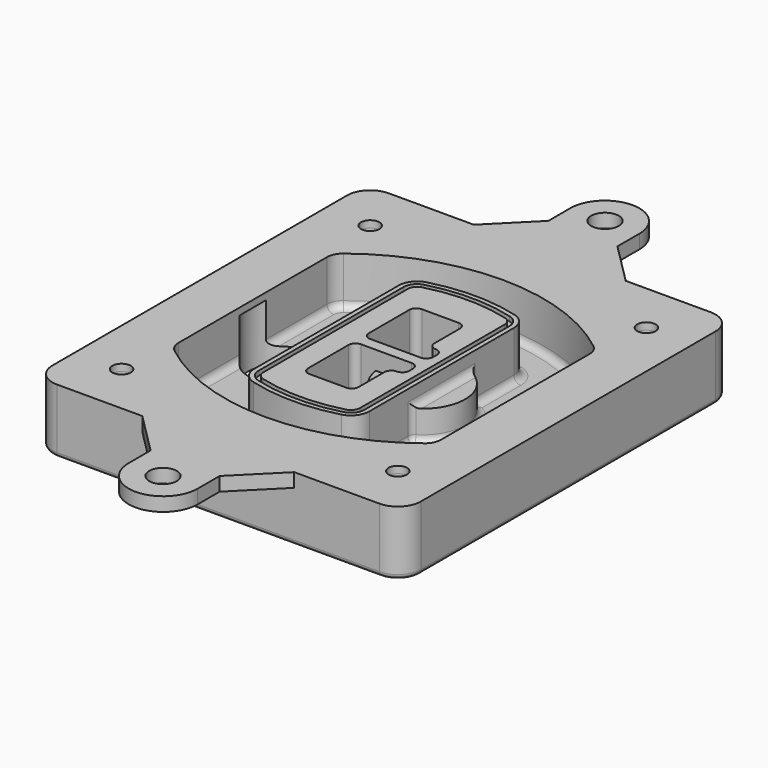
from build123d import *

# Parameters (mm, degrees)
F0_R      = 4
F1_DEPTH  = 25
F2_DEPTH  = 3
F3_DEPTH  = 18
F5_DEPTH  = 21
F6_DEPTH  = 2
F8_DEPTH  = 20
F9_DEPTH  = 16
F10_DEPTH = 25
F7_R      = 6
F7_R_2    = 4
F11_DEPTH = 6
F13_DEPTH = 9
F14_R     = 3
F15_R     = 2
F16_R     = 6
F16_R_2   = 4
F17_DEPTH = 3


with BuildPart() as f1:
    # F0 (on Top) → F1 (new body)
    with BuildSketch(Plane.XY):
        with BuildLine():
            ThreePointArc((-80, -80), (-77.0710678119, -87.0710678119), (-70, -90))
            Line((-70, -90), (70, -90))
            ThreePointArc((70, -90), (77.0710678119, -87.0710678119), (80, -80))
            Line((80, -80), (80, 80))
            ThreePointArc((80, 80), (77.0710678119, 87.0710678119), (70, 90))
            Line((70, 90), (-70, 90))
            ThreePointArc((-70, 90), (-77.0710678119, 87.0710678119), (-80, 80))
            Line((-80, 80), (-80, -80))
        make_face()
        with Locations((-60, -67.5)):
            Circle(F0_R, mode=Mode.SUBTRACT)
        with Locations((60, -67.5)):
            Circle(F0_R, mode=Mode.SUBTRACT)
        with Locations((-60, 67.5)):
            Circle(F0_R, mode=Mode.SUBTRACT)
        with BuildLine():
            ThreePointArc((-64, 40.2934422872), (-62.5820384798, 46.4328484224), (-58.6153846154, 51.3286200352))
            ThreePointArc((-58.6153846154, 51.3286200352), (0, 71.5), (58.6153846154, 51.3286200352))
            ThreePointArc((58.6153846154, 51.3286200352), (62.5820384798, 46.4328484224), (64, 40.2934422872))
            Line((64, 40.2934422872), (64, -40.2934422872))
            ThreePointArc((64, -40.2934422872), (62.5820384798, -46.4328484224), (58.6153846154, -51.3286200352))
            ThreePointArc((58.6153846154, -51.3286200352), (0, -71.5), (-58.6153846154, -51.3286200352))
            ThreePointArc((-58.6153846154, -51.3286200352), (-62.5820384798, -46.4328484224), (-64, -40.2934422872))
            Line((-64, -40.2934422872), (-64, 40.2934422872))
        make_face(mode=Mode.SUBTRACT)
        with Locations((60, 67.5)):
            Circle(F0_R, mode=Mode.SUBTRACT)
        with BuildLine():
            ThreePointArc((58.6153846154, 51.3286200352), (0, 71.5), (-58.6153846154, 51.3286200352))
            ThreePointArc((-58.6153846154, 51.3286200352), (-62.5820384798, 46.4328484224), (-64, 40.2934422872))
            Line((-64, 40.2934422872), (-64, -40.2934422872))
            ThreePointArc((-64, -40.2934422872), (-62.5820384798, -46.4328484224), (-58.6153846154, -51.3286200352))
            ThreePointArc((-58.6153846154, -51.3286200352), (0, -71.5), (58.6153846154, -51.3286200352))
            ThreePointArc((58.6153846154, -51.3286200352), (62.5820384798, -46.4328484224), (64, -40.2934422872))
            Line((64, -40.2934422872), (64, 40.2934422872))
            ThreePointArc((64, 40.2934422872), (62.5820384798, 46.4328484224), (58.6153846154, 51.3286200352))
        make_face()
        with BuildLine():
            Line((-60, -40.2934422872), (-60, 40.2934422872))
            ThreePointArc((-60, 40.2934422872), (-58.9871703427, 44.6787323838), (-56.1538461538, 48.1757121072))
            ThreePointArc((-56.1538461538, 48.1757121072), (0, 67.5), (56.1538461538, 48.1757121072))
            ThreePointArc((56.1538461538, 48.1757121072), (58.9871703427, 44.6787323838), (60, 40.2934422872))
            Line((60, 40.2934422872), (60, -40.2934422872))
            ThreePointArc((60, -40.2934422872), (58.9871703427, -44.6787323838), (56.1538461538, -48.1757121072))
            ThreePointArc((56.1538461538, -48.1757121072), (0, -67.5), (-56.1538461538, -48.1757121072))
            ThreePointArc((-56.1538461538, -48.1757121072), (-58.9871703427, -44.6787323838), (-60, -40.2934422872))
        make_face(mode=Mode.SUBTRACT)
        with BuildLine():
            ThreePointArc((-56.1538461538, 48.1757121072), (-58.9871703427, 44.6787323838), (-60, 40.2934422872))
            Line((-60, 40.2934422872), (-60, -40.2934422872))
            ThreePointArc((-60, -40.2934422872), (-58.9871703427, -44.6787323838), (-56.1538461538, -48.1757121072))
            ThreePointArc((-56.1538461538, -48.1757121072), (0, -67.5), (56.1538461538, -48.1757121072))
            ThreePointArc((56.1538461538, -48.1757121072), (58.9871703427, -44.6787323838), (60, -40.2934422872))
            Line((60, -40.2934422872), (60, 40.2934422872))
            ThreePointArc((60, 40.2934422872), (58.9871703427, 44.6787323838), (56.1538461538, 48.1757121072))
            ThreePointArc((56.1538461538, 48.1757121072), (0, 67.5), (-56.1538461538, 48.1757121072))
        make_face()
        with BuildLine():
            ThreePointArc((54.3076923077, 45.8110311612), (56.2910192399, 43.3631453548), (57, 40.2934422872))
            Line((57, 40.2934422872), (57, -40.2934422872))
            ThreePointArc((57, -40.2934422872), (56.2910192399, -43.3631453548), (54.3076923077, -45.8110311612))
            ThreePointArc((54.3076923077, -45.8110311612), (0, -64.5), (-54.3076923077, -45.8110311612))
            ThreePointArc((-54.3076923077, -45.8110311612), (-56.2910192399, -43.3631453548), (-57, -40.2934422872))
            Line((-57, -40.2934422872), (-57, 40.2934422872))
            ThreePointArc((-57, 40.2934422872), (-56.2910192399, 43.3631453548), (-54.3076923077, 45.8110311612))
            ThreePointArc((-54.3076923077, 45.8110311612), (0, 64.5), (54.3076923077, 45.8110311612))
        make_face(mode=Mode.SUBTRACT)
        with BuildLine():
            Line((57, -40.2934422872), (57, 40.2934422872))
            ThreePointArc((57, 40.2934422872), (56.2910192399, 43.3631453548), (54.3076923077, 45.8110311612))
            ThreePointArc((54.3076923077, 45.8110311612), (0, 64.5), (-54.3076923077, 45.8110311612))
            ThreePointArc((-54.3076923077, 45.8110311612), (-56.2910192399, 43.3631453548), (-57, 40.2934422872))
            Line((-57, 40.2934422872), (-57, -40.2934422872))
            ThreePointArc((-57, -40.2934422872), (-56.2910192399, -43.3631453548), (-54.3076923077, -45.8110311612))
            ThreePointArc((-54.3076923077, -45.8110311612), (0, -64.5), (54.3076923077, -45.8110311612))
            ThreePointArc((54.3076923077, -45.8110311612), (56.2910192399, -43.3631453548), (57, -40.2934422872))
        make_face()
    extrude(amount=-F1_DEPTH)

    # F0 (on Top) → F2 (join)
    with BuildSketch(Plane.XY):
        with BuildLine():
            ThreePointArc((-56.1538461538, 48.1757121072), (-58.9871703427, 44.6787323838), (-60, 40.2934422872))
            Line((-60, 40.2934422872), (-60, -40.2934422872))
            ThreePointArc((-60, -40.2934422872), (-58.9871703427, -44.6787323838), (-56.1538461538, -48.1757121072))
            ThreePointArc((-56.1538461538, -48.1757121072), (0, -67.5), (56.1538461538, -48.1757121072))
            ThreePointArc((56.1538461538, -48.1757121072), (58.9871703427, -44.6787323838), (60, -40.2934422872))
            Line((60, -40.2934422872), (60, 40.2934422872))
            ThreePointArc((60, 40.2934422872), (58.9871703427, 44.6787323838), (56.1538461538, 48.1757121072))
            ThreePointArc((56.1538461538, 48.1757121072), (0, 67.5), (-56.1538461538, 48.1757121072))
        make_face()
        with BuildLine():
            ThreePointArc((54.3076923077, 45.8110311612), (56.2910192399, 43.3631453548), (57, 40.2934422872))
            Line((57, 40.2934422872), (57, -40.2934422872))
            ThreePointArc((57, -40.2934422872), (56.2910192399, -43.3631453548), (54.3076923077, -45.8110311612))
            ThreePointArc((54.3076923077, -45.8110311612), (0, -64.5), (-54.3076923077, -45.8110311612))
            ThreePointArc((-54.3076923077, -45.8110311612), (-56.2910192399, -43.3631453548), (-57, -40.2934422872))
            Line((-57, -40.2934422872), (-57, 40.2934422872))
            ThreePointArc((-57, 40.2934422872), (-56.2910192399, 43.3631453548), (-54.3076923077, 45.8110311612))
            ThreePointArc((-54.3076923077, 45.8110311612), (0, 64.5), (54.3076923077, 45.8110311612))
        make_face(mode=Mode.SUBTRACT)
    extrude(amount=F2_DEPTH)

    # F0 (on Top) → F3 (cut)
    with BuildSketch(Plane.XY):
        with BuildLine():
            Line((57, -40.2934422872), (57, 40.2934422872))
            ThreePointArc((57, 40.2934422872), (56.2910192399, 43.3631453548), (54.3076923077, 45.8110311612))
            ThreePointArc((54.3076923077, 45.8110311612), (0, 64.5), (-54.3076923077, 45.8110311612))
            ThreePointArc((-54.3076923077, 45.8110311612), (-56.2910192399, 43.3631453548), (-57, 40.2934422872))
            Line((-57, 40.2934422872), (-57, -40.2934422872))
            ThreePointArc((-57, -40.2934422872), (-56.2910192399, -43.3631453548), (-54.3076923077, -45.8110311612))
            ThreePointArc((-54.3076923077, -45.8110311612), (0, -64.5), (54.3076923077, -45.8110311612))
            ThreePointArc((54.3076923077, -45.8110311612), (56.2910192399, -43.3631453548), (57, -40.2934422872))
        make_face()
    extrude(amount=-F3_DEPTH, mode=Mode.SUBTRACT)

    # F4 (on face) → F5 (join, through all)
    with BuildSketch(Plane.XY.offset(3)):
        with BuildLine():
            ThreePointArc((-25, -39.2465276821), (-23.3511545998, -44.1109737193), (-19.0842911877, -46.9702398883))
            ThreePointArc((-19.0842911877, -46.9702398883), (0, -49.5), (19.0842911877, -46.9702398883))
            ThreePointArc((19.0842911877, -46.9702398883), (23.3511545998, -44.1109737193), (25, -39.2465276821))
            Line((25, -39.2465276821), (25, 39.2465276821))
            ThreePointArc((25, 39.2465276821), (23.3511545998, 44.1109737193), (19.0842911877, 46.9702398883))
            ThreePointArc((19.0842911877, 46.9702398883), (0, 49.5), (-19.0842911877, 46.9702398883))
            ThreePointArc((-19.0842911877, 46.9702398883), (-23.3511545998, 44.1109737193), (-25, 39.2465276821))
            Line((-25, 39.2465276821), (-25, -39.2465276821))
        make_face()
        with BuildLine():
            ThreePointArc((18.5632183908, 45.0393118368), (21.7633659499, 42.89486221), (23, 39.2465276821))
            Line((23, 39.2465276821), (23, -39.2465276821))
            ThreePointArc((23, -39.2465276821), (21.7633659499, -42.89486221), (18.5632183908, -45.0393118368))
            ThreePointArc((18.5632183908, -45.0393118368), (0, -47.5), (-18.5632183908, -45.0393118368))
            ThreePointArc((-18.5632183908, -45.0393118368), (-21.7633659499, -42.89486221), (-23, -39.2465276821))
            Line((-23, -39.2465276821), (-23, 39.2465276821))
            ThreePointArc((-23, 39.2465276821), (-21.7633659499, 42.89486221), (-18.5632183908, 45.0393118368))
            ThreePointArc((-18.5632183908, 45.0393118368), (0, 47.5), (18.5632183908, 45.0393118368))
        make_face(mode=Mode.SUBTRACT)
        with BuildLine():
            Line((23, -39.2465276821), (23, 39.2465276821))
            ThreePointArc((23, 39.2465276821), (21.7633659499, 42.89486221), (18.5632183908, 45.0393118368))
            ThreePointArc((18.5632183908, 45.0393118368), (0, 47.5), (-18.5632183908, 45.0393118368))
            ThreePointArc((-18.5632183908, 45.0393118368), (-21.7633659499, 42.89486221), (-23, 39.2465276821))
            Line((-23, 39.2465276821), (-23, -39.2465276821))
            ThreePointArc((-23, -39.2465276821), (-21.7633659499, -42.89486221), (-18.5632183908, -45.0393118368))
            ThreePointArc((-18.5632183908, -45.0393118368), (0, -47.5), (18.5632183908, -45.0393118368))
            ThreePointArc((18.5632183908, -45.0393118368), (21.7633659499, -42.89486221), (23, -39.2465276821))
        make_face()
        with BuildLine():
            ThreePointArc((18.0421455939, 43.1083837852), (20.1755772999, 41.6787507007), (21, 39.2465276821))
            Line((21, 39.2465276821), (21, -39.2465276821))
            ThreePointArc((21, -39.2465276821), (20.1755772999, -41.6787507007), (18.0421455939, -43.1083837852))
            ThreePointArc((18.0421455939, -43.1083837852), (0, -45.5), (-18.0421455939, -43.1083837852))
            ThreePointArc((-18.0421455939, -43.1083837852), (-20.1755772999, -41.6787507007), (-21, -39.2465276821))
            Line((-21, -39.2465276821), (-21, 39.2465276821))
            ThreePointArc((-21, 39.2465276821), (-20.1755772999, 41.6787507007), (-18.0421455939, 43.1083837852))
            ThreePointArc((-18.0421455939, 43.1083837852), (0, 45.5), (18.0421455939, 43.1083837852))
        make_face(mode=Mode.SUBTRACT)
        with BuildLine():
            Line((21, -39.2465276821), (21, 39.2465276821))
            ThreePointArc((21, 39.2465276821), (20.1755772999, 41.6787507007), (18.0421455939, 43.1083837852))
            ThreePointArc((18.0421455939, 43.1083837852), (0, 45.5), (-18.0421455939, 43.1083837852))
            ThreePointArc((-18.0421455939, 43.1083837852), (-20.1755772999, 41.6787507007), (-21, 39.2465276821))
            Line((-21, 39.2465276821), (-21, -39.2465276821))
            ThreePointArc((-21, -39.2465276821), (-20.1755772999, -41.6787507007), (-18.0421455939, -43.1083837852))
            ThreePointArc((-18.0421455939, -43.1083837852), (0, -45.5), (18.0421455939, -43.1083837852))
            ThreePointArc((18.0421455939, -43.1083837852), (20.1755772999, -41.6787507007), (21, -39.2465276821))
        make_face()
        with BuildLine():
            Line((-8, -2.5), (14, -2.5))
            ThreePointArc((14, -2.5), (16.1213203436, -3.3786796564), (17, -5.5))
            Line((17, -5.5), (17, -7.5))
            ThreePointArc((17, -7.5), (16.1213203436, -9.6213203436), (14, -10.5))
            ThreePointArc((14, -10.5), (11.8786796564, -11.3786796564), (11, -13.5))
            Line((11, -13.5), (11, -27.5))
            ThreePointArc((11, -27.5), (10.1213203436, -29.6213203436), (8, -30.5))
            Line((8, -30.5), (-8, -30.5))
            ThreePointArc((-8, -30.5), (-10.1213203436, -29.6213203436), (-11, -27.5))
            Line((-11, -27.5), (-11, -5.5))
            ThreePointArc((-11, -5.5), (-10.1213203436, -3.3786796564), (-8, -2.5))
        make_face(mode=Mode.SUBTRACT)
        with BuildLine():
            ThreePointArc((-8, 2.5), (-10.1213203436, 3.3786796564), (-11, 5.5))
            Line((-11, 5.5), (-11, 27.5))
            ThreePointArc((-11, 27.5), (-10.1213203436, 29.6213203436), (-8, 30.5))
            Line((-8, 30.5), (8, 30.5))
            ThreePointArc((8, 30.5), (10.1213203436, 29.6213203436), (11, 27.5))
            Line((11, 27.5), (11, 13.5))
            ThreePointArc((11, 13.5), (11.8786796564, 11.3786796564), (14, 10.5))
            ThreePointArc((14, 10.5), (16.1213203436, 9.6213203436), (17, 7.5))
            Line((17, 7.5), (17, 5.5))
            ThreePointArc((17, 5.5), (16.1213203436, 3.3786796564), (14, 2.5))
            Line((14, 2.5), (-8, 2.5))
        make_face(mode=Mode.SUBTRACT)
    extrude(amount=-F5_DEPTH)

    # F4 (on face) → F6 (cut)
    with BuildSketch(Plane.XY.offset(3)):
        with BuildLine():
            Line((23, -39.2465276821), (23, 39.2465276821))
            ThreePointArc((23, 39.2465276821), (21.7633659499, 42.89486221), (18.5632183908, 45.0393118368))
            ThreePointArc((18.5632183908, 45.0393118368), (0, 47.5), (-18.5632183908, 45.0393118368))
            ThreePointArc((-18.5632183908, 45.0393118368), (-21.7633659499, 42.89486221), (-23, 39.2465276821))
            Line((-23, 39.2465276821), (-23, -39.2465276821))
            ThreePointArc((-23, -39.2465276821), (-21.7633659499, -42.89486221), (-18.5632183908, -45.0393118368))
            ThreePointArc((-18.5632183908, -45.0393118368), (0, -47.5), (18.5632183908, -45.0393118368))
            ThreePointArc((18.5632183908, -45.0393118368), (21.7633659499, -42.89486221), (23, -39.2465276821))
        make_face()
        with BuildLine():
            ThreePointArc((18.0421455939, 43.1083837852), (20.1755772999, 41.6787507007), (21, 39.2465276821))
            Line((21, 39.2465276821), (21, -39.2465276821))
            ThreePointArc((21, -39.2465276821), (20.1755772999, -41.6787507007), (18.0421455939, -43.1083837852))
            ThreePointArc((18.0421455939, -43.1083837852), (0, -45.5), (-18.0421455939, -43.1083837852))
            ThreePointArc((-18.0421455939, -43.1083837852), (-20.1755772999, -41.6787507007), (-21, -39.2465276821))
            Line((-21, -39.2465276821), (-21, 39.2465276821))
            ThreePointArc((-21, 39.2465276821), (-20.1755772999, 41.6787507007), (-18.0421455939, 43.1083837852))
            ThreePointArc((-18.0421455939, 43.1083837852), (0, 45.5), (18.0421455939, 43.1083837852))
        make_face(mode=Mode.SUBTRACT)
    extrude(amount=-F6_DEPTH, mode=Mode.SUBTRACT)

    # F7 (on face) → F8 (join)
    with BuildSketch(Plane(origin=(0, 0, -25), x_dir=(1, 0, 0), z_dir=(0, 0, -1))):
        with BuildLine():
            ThreePointArc((3.28842436, 0), (16.7567035675, 13.4682792075), (30.224982775, 0))
            Line((30.224982775, 0), (35.224982775, 0))
            ThreePointArc((35.224982775, 0), (16.7567035675, 18.4682792075), (-1.71157564, 0))
            Line((-1.71157564, 0), (3.28842436, 0))
        make_face()
        with BuildLine():
            Line((3.28842436, 0), (30.224982775, 0))
            ThreePointArc((30.224982775, 0), (16.7567035675, 13.4682792075), (3.28842436, 0))
        make_face()
        with BuildLine():
            ThreePointArc((3.28842436, 0), (16.7567035675, -13.4682792075), (30.224982775, 0))
            Line((30.224982775, 0), (3.28842436, 0))
        make_face()
        with BuildLine():
            Line((35.224982775, 0), (30.224982775, 0))
            ThreePointArc((30.224982775, 0), (16.7567035675, -13.4682792075), (3.28842436, 0))
            Line((3.28842436, 0), (-1.71157564, 0))
            ThreePointArc((-1.71157564, 0), (16.7567035675, -18.4682792075), (35.224982775, 0))
        make_face()
    extrude(amount=-F8_DEPTH)

    # F7 (on face) → F9 (cut)
    with BuildSketch(Plane(origin=(0, 0, -25), x_dir=(1, 0, 0), z_dir=(0, 0, -1))):
        with BuildLine():
            Line((3.28842436, 0), (30.224982775, 0))
            ThreePointArc((30.224982775, 0), (16.7567035675, 13.4682792075), (3.28842436, 0))
        make_face()
        with BuildLine():
            ThreePointArc((3.28842436, 0), (16.7567035675, -13.4682792075), (30.224982775, 0))
            Line((30.224982775, 0), (3.28842436, 0))
        make_face()
    extrude(amount=-F9_DEPTH, mode=Mode.SUBTRACT)

    # F7 (on face) → F10 (cut)
    with BuildSketch(Plane(origin=(0, 0, -25), x_dir=(1, 0, 0), z_dir=(0, 0, -1))):
        with BuildLine():
            Line((-59.0318229325, 0), (-32.0952645175, 0))
            ThreePointArc((-32.0952645175, 0), (-45.563543725, 13.4682792075), (-59.0318229325, 0))
        make_face()
        with BuildLine():
            ThreePointArc((-59.0318229325, 0), (-45.563543725, -13.4682792075), (-32.0952645175, 0))
            Line((-32.0952645175, 0), (-59.0318229325, 0))
        make_face()
    extrude(amount=-F10_DEPTH, mode=Mode.SUBTRACT)

    # F7 (on face) → F11 (cut)
    with BuildSketch(Plane(origin=(0, 0, -25), x_dir=(1, 0, 0), z_dir=(0, 0, -1))):
        with Locations((60, -67.5)):
            Circle(F7_R)
        with Locations((60, -67.5)):
            Circle(F7_R_2, mode=Mode.SUBTRACT)
        with Locations((60, -67.5)):
            Circle(F7_R)
        with Locations((60, -67.5)):
            Circle(F7_R_2, mode=Mode.SUBTRACT)
        with Locations((-60, -67.5)):
            Circle(F7_R)
        with Locations((-60, -67.5)):
            Circle(F7_R_2, mode=Mode.SUBTRACT)
        with Locations((-60, -67.5)):
            Circle(F7_R)
        with Locations((-60, -67.5)):
            Circle(F7_R_2, mode=Mode.SUBTRACT)
        with Locations((-60, 67.5)):
            Circle(F7_R)
        with Locations((-60, 67.5)):
            Circle(F7_R_2, mode=Mode.SUBTRACT)
        with Locations((-60, 67.5)):
            Circle(F7_R)
        with Locations((-60, 67.5)):
            Circle(F7_R_2, mode=Mode.SUBTRACT)
        with Locations((60, 67.5)):
            Circle(F7_R)
        with Locations((60, 67.5)):
            Circle(F7_R_2, mode=Mode.SUBTRACT)
        with Locations((60, 67.5)):
            Circle(F7_R)
        with Locations((60, 67.5)):
            Circle(F7_R_2, mode=Mode.SUBTRACT)
    extrude(amount=-F11_DEPTH, mode=Mode.SUBTRACT)

    # F12 (on face) → F13 (cut, through all)
    with BuildSketch(Plane(origin=(0, 0, -9), x_dir=(1, 0, 0), z_dir=(0, 0, -1))):
        with BuildLine():
            Line((11, 13.5), (11, 17.5481537753))
            ThreePointArc((11, 17.5481537753), (2.5696536419, 11.8239143813), (-1.5415842455, 2.5))
            Line((-1.5415842455, 2.5), (3.5224848595, 2.5))
            ThreePointArc((3.5224848595, 2.5), (6.1857188154, 8.3455872281), (11.2536447004, 12.2927168648))
            ThreePointArc((11.2536447004, 12.2927168648), (11.0640958889, 12.8831798879), (11, 13.5))
        make_face()
        with BuildLine():
            ThreePointArc((11.2536447004, -12.2927168648), (6.1857188154, -8.3455872281), (3.5224848595, -2.5))
            Line((3.5224848595, -2.5), (-1.5415842455, -2.5))
            ThreePointArc((-1.5415842455, -2.5), (2.5696536419, -11.8239143813), (11, -17.5481537753))
            Line((11, -17.5481537753), (11, -13.5))
            ThreePointArc((11, -13.5), (11.0640958889, -12.8831798879), (11.2536447004, -12.2927168648))
        make_face()
        with BuildLine():
            ThreePointArc((11.2536447004, 12.2927168648), (6.1857188154, 8.3455872281), (3.5224848595, 2.5))
            Line((3.5224848595, 2.5), (14, 2.5))
            ThreePointArc((14, 2.5), (16.1213203436, 3.3786796564), (17, 5.5))
            Line((17, 5.5), (17, 7.5))
            ThreePointArc((17, 7.5), (16.1213203436, 9.6213203436), (14, 10.5))
            ThreePointArc((14, 10.5), (12.3601599782, 10.9878446101), (11.2536447004, 12.2927168648))
        make_face()
        with BuildLine():
            Line((14, -2.5), (3.5224848595, -2.5))
            ThreePointArc((3.5224848595, -2.5), (6.1857188154, -8.3455872281), (11.2536447004, -12.2927168648))
            ThreePointArc((11.2536447004, -12.2927168648), (12.3601599782, -10.9878446101), (14, -10.5))
            ThreePointArc((14, -10.5), (16.1213203436, -9.6213203436), (17, -7.5))
            Line((17, -7.5), (17, -5.5))
            ThreePointArc((17, -5.5), (16.1213203436, -3.3786796564), (14, -2.5))
        make_face()
    extrude(amount=F13_DEPTH, mode=Mode.SUBTRACT)

    # F14
    f14_edges = [f1.edges().sort_by_distance(p)[0] for p in [
        (-57, -23.703476, -18),
        (-57, 23.703476, -18),
        (25, 0, -5),
        (25, 16.526506, -11.5),
        (25, -16.526506, -11.5),
        (25, -27.886517, -18),
        (35.224983, 0, -18),
    ]]
    fillet(f14_edges, radius=F14_R)

    # F15
    f15_edges = [f1.edges().sort_by_distance(p)[0] for p in [
        (0, -90, -25),
    ]]
    fillet(f15_edges, radius=F15_R)

    # F16 (on face) → F17 (join, symmetric)
    with BuildSketch(Plane.XY):
        with BuildLine():
            Line((15, 108), (15, 119.8984753489))
            ThreePointArc((15, 119.8984753489), (0, 134.8984753489), (-15, 119.8984753489))
            Line((-15, 119.8984753489), (-15, 108))
            Line((-15, 108), (-33, 90))
            Line((-33, 90), (33, 90))
            Line((33, 90), (15, 108))
        make_face()
        with Locations((0, 120)):
            Circle(F16_R, mode=Mode.SUBTRACT)
        with BuildLine():
            Line((70, 90), (33, 90))
            Line((33, 90), (-33, 90))
            Line((-33, 90), (-70, 90))
            ThreePointArc((-70, 90), (-77.0710678119, 87.0710678119), (-80, 80))
            Line((-80, 80), (-80, -80))
            ThreePointArc((-80, -80), (-77.0710678119, -87.0710678119), (-70, -90))
            Line((-70, -90), (-33, -90))
            Line((-33, -90), (33, -90))
            Line((33, -90), (70, -90))
            ThreePointArc((70, -90), (77.0710678119, -87.0710678119), (80, -80))
            Line((80, -80), (80, 80))
            ThreePointArc((80, 80), (77.0710678119, 87.0710678119), (70, 90))
        make_face()
        with Locations((-60, -67.5)):
            Circle(F16_R_2, mode=Mode.SUBTRACT)
        with Locations((60, -67.5)):
            Circle(F16_R_2, mode=Mode.SUBTRACT)
        with BuildLine():
            ThreePointArc((-60, 40.2934422872), (-58.9871703427, 44.6787323838), (-56.1538461538, 48.1757121072))
            ThreePointArc((-56.1538461538, 48.1757121072), (0, 67.5), (56.1538461538, 48.1757121072))
            ThreePointArc((56.1538461538, 48.1757121072), (58.9871703427, 44.6787323838), (60, 40.2934422872))
            Line((60, 40.2934422872), (60, -40.2934422872))
            ThreePointArc((60, -40.2934422872), (58.9871703427, -44.6787323838), (56.1538461538, -48.1757121072))
            ThreePointArc((56.1538461538, -48.1757121072), (0, -67.5), (-56.1538461538, -48.1757121072))
            ThreePointArc((-56.1538461538, -48.1757121072), (-58.9871703427, -44.6787323838), (-60, -40.2934422872))
            Line((-60, -40.2934422872), (-60, 40.2934422872))
        make_face(mode=Mode.SUBTRACT)
        with Locations((-60, 67.5)):
            Circle(F16_R_2, mode=Mode.SUBTRACT)
        with Locations((60, 67.5)):
            Circle(F16_R_2, mode=Mode.SUBTRACT)
        with BuildLine():
            Line((15, -108), (33, -90))
            Line((33, -90), (-33, -90))
            Line((-33, -90), (-15, -108))
            Line((-15, -108), (-15, -119.8984753489))
            ThreePointArc((-15, -119.8984753489), (0, -134.8984753489), (15, -119.8984753489))
            Line((15, -119.8984753489), (15, -108))
        make_face()
        with Locations((0, -120)):
            Circle(F16_R, mode=Mode.SUBTRACT)
    extrude(amount=F17_DEPTH, both=True)


solid = f1.part
